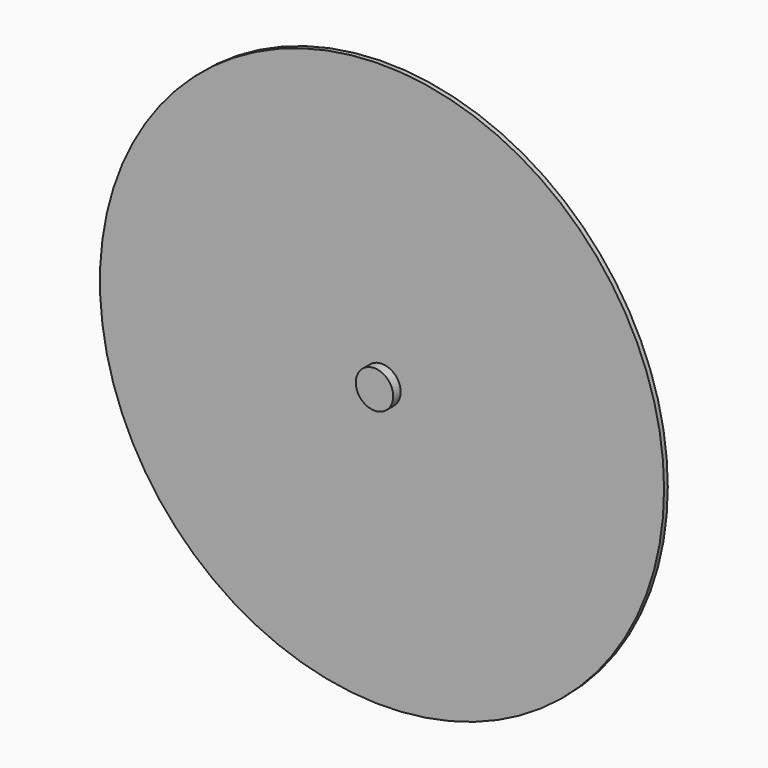
from build123d import *

# Parameters (mm, degrees)
F1_R     = 4
F2_DEPTH = 3
F0_R     = 60.325
F3_DEPTH = 1
F4_R     = 4
F5_DEPTH = 2.25


with BuildPart() as f2:
    # F1 (on face) → F2 (new body)
    with BuildSketch(Plane.XZ):
        Circle(F1_R)
    extrude(amount=F2_DEPTH)

    # F0 (on Front) → F3 (join)
    with BuildSketch(Plane.XZ):
        Circle(F0_R)
    extrude(amount=F3_DEPTH)

    # F4 (on face) → F5 (join)
    with BuildSketch(Plane(origin=(0, 0, 0), x_dir=(-1, 0, 0), z_dir=(0, 1, 0))):
        Circle(F4_R)
    extrude(amount=F5_DEPTH)


solid = f2.part
